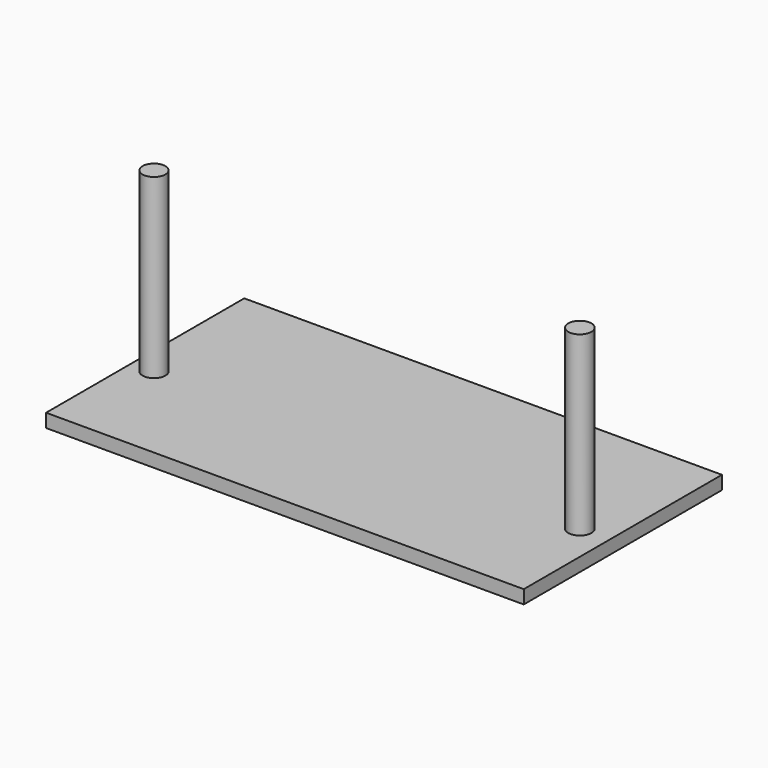
from build123d import *

# Parameters (mm, degrees)
F0_W     = 134.956628
F0_H     = 69.98465
F1_DEPTH = 3.81
F2_T     = -2.54
F3_R     = 3.221336
F3_R_2   = 3.263541
F4_DEPTH = 53.848


with BuildPart() as f1:
    # F0 (on Top) → F1 (new body)
    with BuildSketch(Plane.XY):
        with Locations((1.349568, 4.723483)):
            Rectangle(F0_W, F0_H)
    extrude(amount=F1_DEPTH)

    # F2
    f2_openings = [f1.faces().sort_by_distance(p)[0] for p in [
        (1.349568, 4.723483, 0),
    ]]
    offset(amount=F2_T, openings=f2_openings)

    # F3 (on Top) → F4 (join)
    with BuildSketch(Plane.XY):
        with Locations((-59.856646, 0)):
            Circle(F3_R)
        with Locations((60.466468, 0)):
            Circle(F3_R_2)
    extrude(amount=F4_DEPTH)


solid = f1.part
